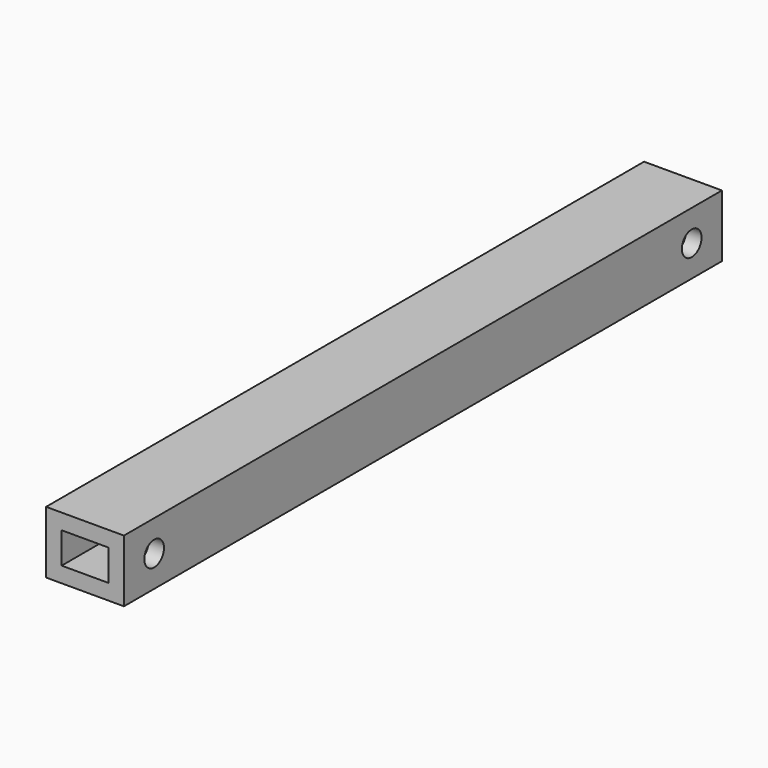
from build123d import *

# Parameters (mm, degrees)
F0_W     = 31.75
F0_H     = 25.4
F0_W_2   = 19.05
F0_H_2   = 12.7
F1_DEPTH = 304.8
F2_R     = 5
F3_DEPTH = 25.4
F4_R     = 5
F5_DEPTH = 12.7


with BuildPart() as f1:
    # F0 (on Front) → F1 (new body)
    with BuildSketch(Plane.XZ):
        with Locations((1.637192, -5.449059)):
            Rectangle(F0_W, F0_H)
        with Locations((1.637192, -5.449059)):
            Rectangle(F0_W_2, F0_H_2, mode=Mode.SUBTRACT)
    extrude(amount=F1_DEPTH)

    # F2 (on face) → F3 (cut)
    with BuildSketch(Plane.YZ.offset(17.512192)):
        with Locations((-15.4, -5.449059)):
            Circle(F2_R)
        with Locations((-289.4, -5.449059)):
            Circle(F2_R)
    extrude(amount=-F3_DEPTH, mode=Mode.SUBTRACT)

    # F4 (on face) → F5 (cut)
    with BuildSketch(Plane(origin=(-14.237808, 0, 0), x_dir=(0, -1, 0), z_dir=(-1, 0, 0))):
        with Locations((144.87398, -5.449059)):
            Circle(F4_R)
        with Locations((182.974, -5.449059)):
            Circle(F4_R)
    extrude(amount=-F5_DEPTH, mode=Mode.SUBTRACT)


solid = f1.part
